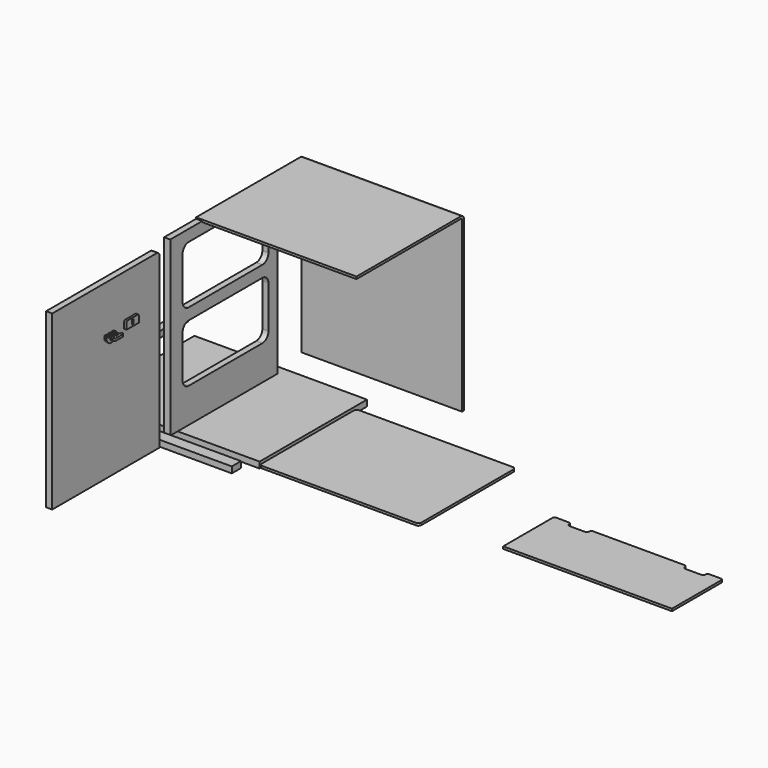
from build123d import *

# Parameters (mm, degrees)
F1_DEPTH  = 16
F3_DEPTH  = 16
F5_DEPTH  = 418
F7_DEPTH  = 16
F8_W      = 418
F8_H      = 30
F9_DEPTH  = 16
F10_W     = 20
F10_H     = 320
F11_DEPTH = 16
F13_DEPTH = 6
F15_DEPTH = 6
F16_R     = 3
F17_DEPTH = 6
F19_DEPTH = 6
F21_DEPTH = 6


with BuildPart() as f1:
    # F0 (on Top) → F1 (new body)
    with BuildSketch(Plane.XY):
        Polygon((213.479372, 183.901393), (-236.520628, 183.901393), (-236.520628, -151.098607), (-236.520628, -166.098607), (-221.520628, -166.098607), (198.479372, -166.098607), (213.479372, -166.098607), (213.479372, -151.098607), align=None)
    extrude(amount=F1_DEPTH)


with BuildPart() as f3:
    # F2 (on Right) → F3 (new body)
    with BuildSketch(Plane.YZ):
        with BuildLine():
            Line((-210.274261, 479.351352), (-210.274261, 29.351352))
            Line((-210.274261, 29.351352), (139.725739, 29.351352))
            Line((139.725739, 29.351352), (139.725739, 469.351352))
            ThreePointArc((139.725739, 469.351352), (136.796807, 476.42242), (129.725739, 479.351352))
            Line((129.725739, 479.351352), (-210.274261, 479.351352))
        make_face()
        with BuildLine():
            ThreePointArc((-170.274261, 249.351352), (-164.416397, 263.493487), (-150.274261, 269.351352))
            Line((-150.274261, 269.351352), (89.725739, 269.351352))
            ThreePointArc((89.725739, 269.351352), (103.867874, 263.493487), (109.725739, 249.351352))
            Line((109.725739, 249.351352), (109.725739, 139.351352))
            ThreePointArc((109.725739, 139.351352), (103.867874, 125.209216), (89.725739, 119.351352))
            Line((89.725739, 119.351352), (-150.274261, 119.351352))
            ThreePointArc((-150.274261, 119.351352), (-164.416397, 125.209216), (-170.274261, 139.351352))
            Line((-170.274261, 139.351352), (-170.274261, 249.351352))
        make_face(mode=Mode.SUBTRACT)
        with BuildLine():
            ThreePointArc((-170.274261, 429.351352), (-164.416397, 443.493487), (-150.274261, 449.351352))
            Line((-150.274261, 449.351352), (89.725739, 449.351352))
            ThreePointArc((89.725739, 449.351352), (103.867874, 443.493487), (109.725739, 429.351352))
            Line((109.725739, 429.351352), (109.725739, 319.351352))
            ThreePointArc((109.725739, 319.351352), (103.867874, 305.209216), (89.725739, 299.351352))
            Line((89.725739, 299.351352), (-150.274261, 299.351352))
            ThreePointArc((-150.274261, 299.351352), (-164.416397, 305.209216), (-170.274261, 319.351352))
            Line((-170.274261, 319.351352), (-170.274261, 429.351352))
        make_face(mode=Mode.SUBTRACT)
    extrude(amount=F3_DEPTH)


with BuildPart() as f5:
    # F4 (on Right) → F5 (new body)
    with BuildSketch(Plane.YZ):
        with BuildLine():
            Line((237.859797, 32.823731), (243.859797, 32.823731))
            Line((243.859797, 32.823731), (243.859797, 472.823731))
            ThreePointArc((243.859797, 472.823731), (240.930865, 479.894799), (233.859797, 482.823731))
            Line((233.859797, 482.823731), (-106.140203, 482.823731))
            Line((-106.140203, 482.823731), (-106.140203, 476.823731))
            Line((-106.140203, 476.823731), (233.859797, 476.823731))
            ThreePointArc((233.859797, 476.823731), (236.688224, 475.652158), (237.859797, 472.823731))
            Line((237.859797, 472.823731), (237.859797, 32.823731))
        make_face()
    extrude(amount=F5_DEPTH)


with BuildPart() as f7:
    # F6 (on face) → F7 (new body)
    with BuildSketch(Plane.YZ.offset(16)):
        with BuildLine():
            Line((-614.965916, 479.351352), (-614.965916, 29.351352))
            Line((-614.965916, 29.351352), (-264.965916, 29.351352))
            Line((-264.965916, 29.351352), (-264.965916, 469.351352))
            ThreePointArc((-264.965916, 469.351352), (-267.894848, 476.42242), (-274.965916, 479.351352))
            Line((-274.965916, 479.351352), (-614.965916, 479.351352))
        make_face()
    extrude(amount=F7_DEPTH)


with BuildPart() as f9:
    # F8 (on face) → F9 (new body)
    with BuildSketch(Plane.XY.offset(16)):
        with Locations((-7.193144, -227.09062)):
            Rectangle(F8_W, F8_H)
    extrude(amount=F9_DEPTH)


with BuildPart() as f11:
    # F10 (on face) → F11 (new body)
    with BuildSketch(Plane.XY.offset(16)):
        with Locations((-295.236692, 63.931197)):
            Rectangle(F10_W, F10_H)
    extrude(amount=F11_DEPTH)


with BuildPart() as f13:
    # F12 (on face) → F13 (new body)
    with BuildSketch(Plane.XY.offset(16)):
        with BuildLine():
            ThreePointArc((229.714536, -178.821809), (232.057682, -184.478663), (237.714536, -186.821809))
            Line((237.714536, -186.821809), (637.714536, -186.821809))
            ThreePointArc((637.714536, -186.821809), (643.37139, -184.478663), (645.714536, -178.821809))
            Line((645.714536, -178.821809), (645.714536, 120.178191))
            ThreePointArc((645.714536, 120.178191), (643.37139, 125.835046), (637.714536, 128.178191))
            Line((637.714536, 128.178191), (237.714536, 128.178191))
            ThreePointArc((237.714536, 128.178191), (232.057682, 125.835046), (229.714536, 120.178191))
            Line((229.714536, 120.178191), (229.714536, -178.821809))
        make_face()
    extrude(amount=F13_DEPTH)


with BuildPart() as f15:
    # F14 (on face) → F15 (new body)
    with BuildSketch(Plane.XY.offset(22)):
        with BuildLine():
            Line((848.323096, -5), (848.323096, -166))
            Line((848.323096, -166), (1288.323096, -166))
            Line((1288.323096, -166), (1288.323096, -5))
            ThreePointArc((1288.323096, -5), (1286.85863, -1.464466), (1283.323096, 0))
            Line((1283.323096, 0), (1252.634518, 0))
            ThreePointArc((1252.634518, 0), (1249.42058, -1.169778), (1247.710479, -4.131759))
            Line((1247.710479, -4.131759), (1247.051637, -7.868241))
            ThreePointArc((1247.051637, -7.868241), (1245.341536, -10.830222), (1242.127598, -12))
            Line((1242.127598, -12), (1199.518594, -12))
            ThreePointArc((1199.518594, -12), (1196.304656, -10.830222), (1194.594555, -7.868241))
            Line((1194.594555, -7.868241), (1193.935713, -4.131759))
            ThreePointArc((1193.935713, -4.131759), (1192.225612, -1.169778), (1189.011674, 0))
            Line((1189.011674, 0), (949.634518, 0))
            ThreePointArc((949.634518, 0), (946.42058, -1.169778), (944.710479, -4.131759))
            Line((944.710479, -4.131759), (944.051637, -7.868241))
            ThreePointArc((944.051637, -7.868241), (942.341536, -10.830222), (939.127598, -12))
            Line((939.127598, -12), (897.518594, -12))
            ThreePointArc((897.518594, -12), (894.304656, -10.830222), (892.594555, -7.868241))
            Line((892.594555, -7.868241), (891.935713, -4.131759))
            ThreePointArc((891.935713, -4.131759), (890.225612, -1.169778), (887.011674, 0))
            Line((887.011674, 0), (853.323096, 0))
            ThreePointArc((853.323096, 0), (849.787562, -1.464466), (848.323096, -5))
        make_face()
    extrude(amount=F15_DEPTH)


with BuildPart() as f17:
    # F16 (on face) → F17 (new body)
    with BuildSketch(Plane.YZ.offset(32)):
        with BuildLine():
            Line((-439.399974, 359.393865), (-445.399974, 359.393865))
            Line((-445.399974, 359.393865), (-445.399974, 351.05072))
            ThreePointArc((-445.399974, 351.05072), (-445.095492, 349.519986), (-444.228401, 348.222293))
            Line((-444.228401, 348.222293), (-436.571547, 340.565438))
            ThreePointArc((-436.571547, 340.565438), (-435.273853, 339.698347), (-433.74312, 339.393865))
            Line((-433.74312, 339.393865), (-427.056828, 339.393865))
            ThreePointArc((-427.056828, 339.393865), (-425.526095, 339.698347), (-424.228401, 340.565438))
            Line((-424.228401, 340.565438), (-416.571547, 348.222293))
            ThreePointArc((-416.571547, 348.222293), (-415.704456, 349.519986), (-415.399974, 351.05072))
            Line((-415.399974, 351.05072), (-415.399974, 359.393865))
            Line((-415.399974, 359.393865), (-421.399974, 359.393865))
            Line((-421.399974, 359.393865), (-421.399974, 353.393865))
            Line((-421.399974, 353.393865), (-427.399974, 353.393865))
            Line((-427.399974, 353.393865), (-427.399974, 359.393865))
            Line((-427.399974, 359.393865), (-433.399974, 359.393865))
            Line((-433.399974, 359.393865), (-433.399974, 353.393865))
            Line((-433.399974, 353.393865), (-439.399974, 353.393865))
            Line((-439.399974, 353.393865), (-439.399974, 359.393865))
        make_face()
        with Locations((-430.399974, 347.393865)):
            Circle(F16_R, mode=Mode.SUBTRACT)
    extrude(amount=F17_DEPTH)


with BuildPart() as f19:
    # F18 (on face) → F19 (new body)
    with BuildSketch(Plane.XY.offset(353.393865)):
        with BuildLine():
            Line((53.36509, -412.673558), (51.36509, -412.673558))
            Line((51.36509, -412.673558), (51.36509, -418.673558))
            Line((51.36509, -418.673558), (42.36509, -418.673558))
            Line((42.36509, -418.673558), (42.36509, -424.673558))
            Line((42.36509, -424.673558), (51.36509, -424.673558))
            Line((51.36509, -424.673558), (51.36509, -430.673558))
            Line((51.36509, -430.673558), (42.36509, -430.673558))
            Line((42.36509, -430.673558), (42.36509, -436.673558))
            Line((42.36509, -436.673558), (51.36509, -436.673558))
            Line((51.36509, -436.673558), (51.36509, -442.673558))
            Line((51.36509, -442.673558), (53.36509, -442.673558))
            ThreePointArc((53.36509, -442.673558), (56.193517, -441.501985), (57.36509, -438.673558))
            Line((57.36509, -438.673558), (57.36509, -416.673558))
            ThreePointArc((57.36509, -416.673558), (56.193517, -413.845131), (53.36509, -412.673558))
        make_face()
    extrude(amount=F19_DEPTH)


with BuildPart() as f21:
    # F20 (on face) → F21 (new body)
    with BuildSketch(Plane.YZ.offset(32)):
        with BuildLine():
            Line((-343.322595, 368.435969), (-377.322595, 368.435969))
            ThreePointArc((-377.322595, 368.435969), (-379.443915, 367.557289), (-380.322595, 365.435969))
            Line((-380.322595, 365.435969), (-380.322595, 348.435969))
            Line((-380.322595, 348.435969), (-340.322595, 348.435969))
            Line((-340.322595, 348.435969), (-340.322595, 365.435969))
            ThreePointArc((-340.322595, 365.435969), (-341.201274, 367.557289), (-343.322595, 368.435969))
        make_face()
        with BuildLine():
            ThreePointArc((-360.322595, 364.693689), (-358.201274, 363.815009), (-357.322595, 361.693689))
            Line((-357.322595, 361.693689), (-357.322595, 355.693689))
            ThreePointArc((-357.322595, 355.693689), (-358.201274, 353.572369), (-360.322595, 352.693689))
            ThreePointArc((-360.322595, 352.693689), (-362.443915, 353.572369), (-363.322595, 355.693689))
            Line((-363.322595, 355.693689), (-363.322595, 361.693689))
            ThreePointArc((-363.322595, 361.693689), (-362.443915, 363.815009), (-360.322595, 364.693689))
        make_face(mode=Mode.SUBTRACT)
    extrude(amount=F21_DEPTH)


solid = Compound([f1.part, f3.part, f5.part, f7.part, f9.part, f11.part, f13.part, f15.part, f17.part, f19.part, f21.part])
